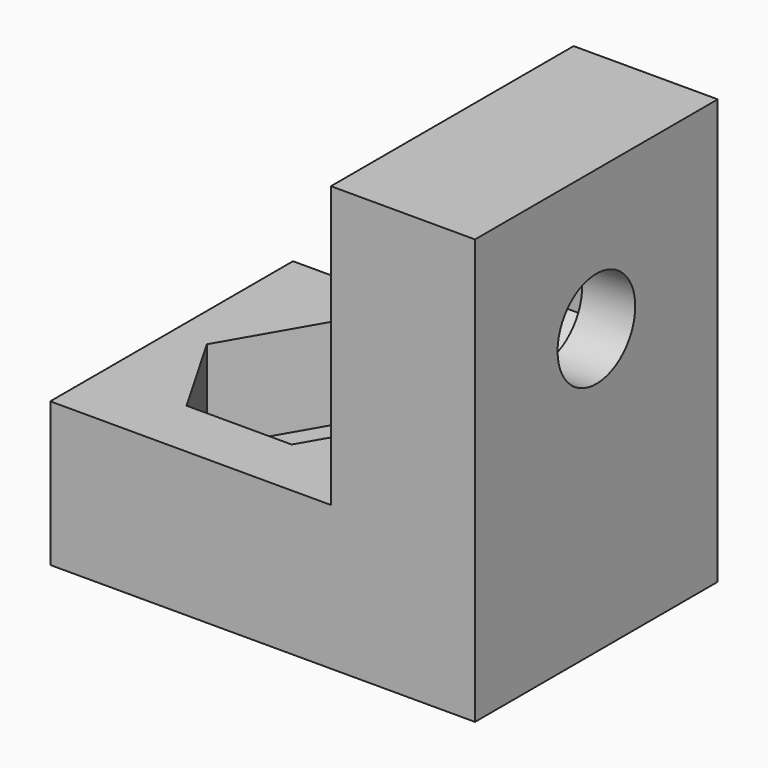
from build123d import *

# Parameters (mm, degrees)
F1_DEPTH  = 10
F2_R      = 1.6
F3_DEPTH  = 3
F3_FACE_R = 1.6
F4_DEPTH  = 25
F5_R      = 1.6
F6_DEPTH  = 3
F6_FACE_R = 1.6
F7_DEPTH  = 25


with BuildPart() as f1:
    # F0 (on Front) → F1 (new body)
    with BuildSketch(Plane.XZ):
        Polygon((-14, 0), (0, 0), (0, 14), (-4.75, 14), (-4.75, 4.75), (-14, 4.75), align=None)
    extrude(amount=F1_DEPTH)

    # F2 (on face) → F3 (cut)
    with BuildSketch(Plane(origin=(-4.75, 0, 0), x_dir=(0, -1, 0), z_dir=(-1, 0, 0))):
        Polygon((2, 11.107051), (2, 7.642949), (5, 5.910898), (8, 7.642949), (8, 11.107051), (5, 12.839102), align=None)
        with Locations((5, 9.375)):
            Circle(F2_R, mode=Mode.SUBTRACT)
    extrude(amount=-F3_DEPTH, mode=Mode.SUBTRACT)

    # F3_face (on face) → F4 (cut)
    with BuildSketch(Plane(origin=(-4.75, -5, 9.375), x_dir=(0, -1, 0), z_dir=(-1, 0, 0))):
        Circle(F3_FACE_R)
    extrude(amount=-F4_DEPTH, mode=Mode.SUBTRACT)

    # F5 (on face) → F6 (cut)
    with BuildSketch(Plane.XY.offset(4.75)):
        Polygon((-11.107051, -8), (-7.642949, -8), (-5.910898, -5), (-7.642949, -2), (-11.107051, -2), (-12.839102, -5), align=None)
        with Locations((-9.375, -5)):
            Circle(F5_R, mode=Mode.SUBTRACT)
    extrude(amount=-F6_DEPTH, mode=Mode.SUBTRACT)

    # F6_face (on face) → F7 (cut)
    with BuildSketch(Plane(origin=(-9.375, -5, 4.75), x_dir=(1, 0, 0), z_dir=(0, 0, 1))):
        Circle(F6_FACE_R)
    extrude(amount=-F7_DEPTH, mode=Mode.SUBTRACT)


solid = f1.part
